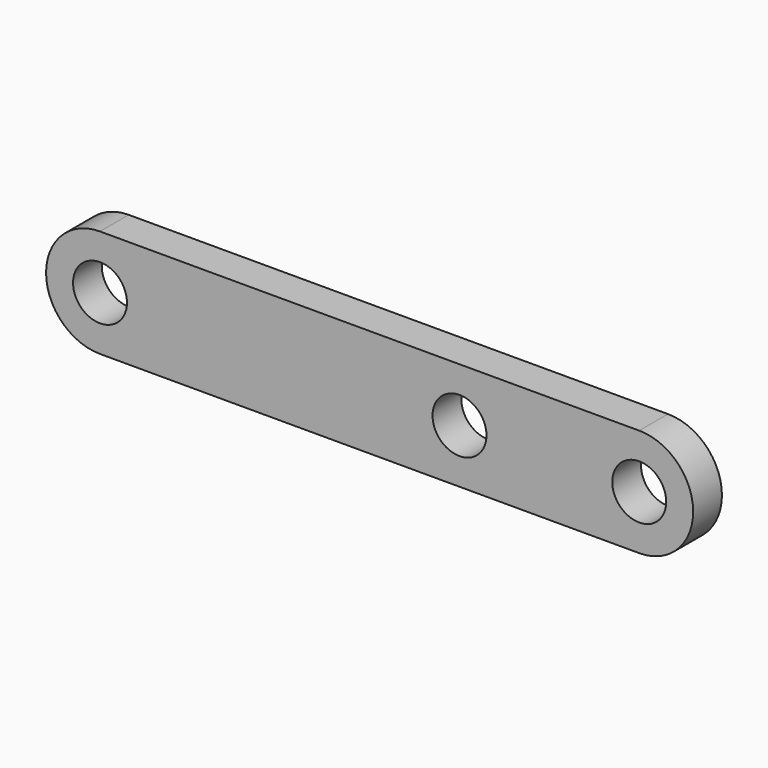
from build123d import *

# Parameters (mm, degrees)
F0_R     = 7.5
F1_DEPTH = 10


with BuildPart() as f1:
    # F0 (on Front) → F1 (new body)
    with BuildSketch(Plane.XZ):
        with BuildLine():
            Line((150, 15), (0, 15))
            ThreePointArc((0, 15), (-15, 0), (0, -15))
            Line((0, -15), (150, -15))
            ThreePointArc((150, -15), (165, 0), (150, 15))
        make_face()
        Circle(F0_R, mode=Mode.SUBTRACT)
        with Locations((100, 0)):
            Circle(F0_R, mode=Mode.SUBTRACT)
        with Locations((150, 0)):
            Circle(F0_R, mode=Mode.SUBTRACT)
    extrude(amount=F1_DEPTH)


solid = f1.part
